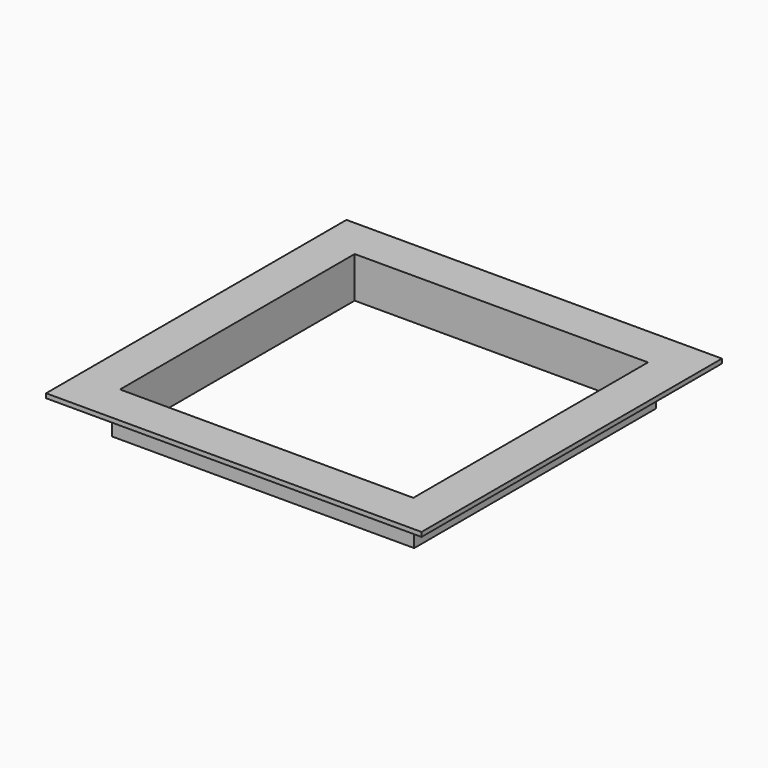
from build123d import *

# Parameters (mm, degrees)
SKETCH_W     = 400
SKETCH_H     = 60
PAD_DEPTH    = 200
SKETCH052_W  = 412
SKETCH052_H  = 50
PAD001_DEPTH = 206
SKETCH053_W  = 512
SKETCH053_H  = 512
PAD002_DEPTH = 6


with BuildPart() as body:
    # Sketch → Pad (new body, symmetric)
    with BuildSketch(Plane.XZ):
        with Locations((0, 30)):
            Rectangle(SKETCH_W, SKETCH_H)
    extrude(amount=PAD_DEPTH, both=True)


with BuildPart() as cut006:
    # Sketch052 → Pad001 (new body, symmetric)
    with BuildSketch(Plane.XZ):
        with Locations((0, 25)):
            Rectangle(SKETCH052_W, SKETCH052_H)
    extrude(amount=PAD001_DEPTH, both=True)

    # Sketch053 (on Face3 of Pad001) → Pad002 (join)
    with BuildSketch(Plane(origin=(0, 0, 50), x_dir=(-1, 0, 0), z_dir=(0, 0, 1))):
        Rectangle(SKETCH053_W, SKETCH053_H)
    extrude(amount=PAD002_DEPTH)

    # Cut006: cut Body
    add(body.part, mode=Mode.SUBTRACT)


solid = cut006.part
